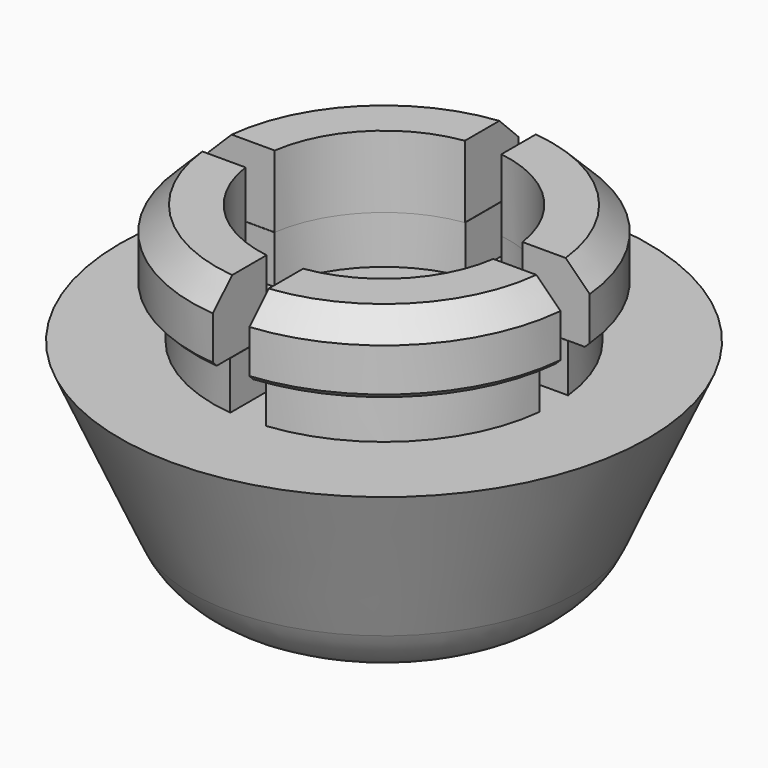
from build123d import *

# Parameters (mm, degrees)
F1_R     = 8.89
F2_R     = 13.97
F5_R     = 5.08
F7_DEPTH = 2.54
F9_DEPTH = 3.81
F10_SIZE = 1.27
F11_SIZE = 0.254


with BuildPart() as f4:
    # F1 (on Top) → F4 section 0
    with BuildSketch(Plane.XY):
        Circle(F1_R)
    # F2 (on offset) → F4 section 1
    with BuildSketch(Plane.XY.offset(11.43)):
        Circle(F2_R)
    loft()

    # F5
    f5_edges = [f4.edges().sort_by_distance(p)[0] for p in [
        (-8.89, 0, 0),
    ]]
    fillet(f5_edges, radius=F5_R)

    # F6 (on offset) → F7 (join)
    with BuildSketch(Plane.XY.offset(11.43)):
        with BuildLine():
            Line((-0.9525, 6.5696794791), (-0.9525, 8.9808006413))
            ThreePointArc((-0.9525, 8.9808006413), (-6.3860017386, 6.3860017386), (-8.9808006413, 0.9525))
            Line((-8.9808006413, 0.9525), (-6.5696794791, 0.9525))
            ThreePointArc((-6.5696794791, 0.9525), (-4.694035828, 4.694035828), (-0.9525, 6.5696794791))
        make_face()
        with BuildLine():
            ThreePointArc((-0.9525, -6.5696794791), (-4.694035828, -4.694035828), (-6.5696794791, -0.9525))
            Line((-6.5696794791, -0.9525), (-8.9808006413, -0.9525))
            ThreePointArc((-8.9808006413, -0.9525), (-6.3860017386, -6.3860017386), (-0.9525, -8.9808006413))
            Line((-0.9525, -8.9808006413), (-0.9525, -6.5696794791))
        make_face()
        with BuildLine():
            ThreePointArc((0.9525, -8.9808006413), (6.3860017386, -6.3860017386), (8.9808006413, -0.9525))
            Line((8.9808006413, -0.9525), (6.5696794791, -0.9525))
            ThreePointArc((6.5696794791, -0.9525), (4.694035828, -4.694035828), (0.9525, -6.5696794791))
            Line((0.9525, -6.5696794791), (0.9525, -8.9808006413))
        make_face()
        with BuildLine():
            Line((6.5696794791, 0.9525), (8.9808006413, 0.9525))
            ThreePointArc((8.9808006413, 0.9525), (6.3860017386, 6.3860017386), (0.9525, 8.9808006413))
            Line((0.9525, 8.9808006413), (0.9525, 6.5696794791))
            ThreePointArc((0.9525, 6.5696794791), (4.694035828, 4.694035828), (6.5696794791, 0.9525))
        make_face()
    extrude(amount=F7_DEPTH)

    # F8 (on offset) → F9 (join)
    with BuildSketch(Plane.XY.offset(13.97)):
        with BuildLine():
            Line((-0.9671329128, 6.5584753021), (-0.9671329128, 10.1138644409))
            ThreePointArc((-0.9671329128, 10.1138644409), (-7.1842048969, 7.1842048969), (-10.1138644409, 0.9671329128))
            Line((-10.1138644409, 0.9671329128), (-6.5584753021, 0.9671329128))
            ThreePointArc((-6.5584753021, 0.9671329128), (-4.6876936952, 4.6876936952), (-0.9671329128, 6.5584753021))
        make_face()
        with BuildLine():
            ThreePointArc((10.1138644409, 0.9671329128), (7.1842048969, 7.1842048969), (0.9671329128, 10.1138644409))
            Line((0.9671329128, 10.1138644409), (0.9671329128, 6.5584753021))
            ThreePointArc((0.9671329128, 6.5584753021), (4.6876936952, 4.6876936952), (6.5584753021, 0.9671329128))
            Line((6.5584753021, 0.9671329128), (10.1138644409, 0.9671329128))
        make_face()
        with BuildLine():
            ThreePointArc((0.9671329128, -10.1138644409), (7.1842048969, -7.1842048969), (10.1138644409, -0.9671329128))
            Line((10.1138644409, -0.9671329128), (6.5584753021, -0.9671329128))
            ThreePointArc((6.5584753021, -0.9671329128), (4.6876936952, -4.6876936952), (0.9671329128, -6.5584753021))
            Line((0.9671329128, -6.5584753021), (0.9671329128, -10.1138644409))
        make_face()
        with BuildLine():
            Line((-6.5584753021, -0.9671329128), (-10.1138644409, -0.9671329128))
            ThreePointArc((-10.1138644409, -0.9671329128), (-7.1842048969, -7.1842048969), (-0.9671329128, -10.1138644409))
            Line((-0.9671329128, -10.1138644409), (-0.9671329128, -6.5584753021))
            ThreePointArc((-0.9671329128, -6.5584753021), (-4.6876936952, -4.6876936952), (-6.5584753021, -0.9671329128))
        make_face()
    extrude(amount=F9_DEPTH)

    # F10
    f10_edges = [f4.edges().sort_by_distance(p)[0] for p in [
        (-7.184205, -7.184205, 17.78),
        (7.184205, -7.184205, 17.78),
        (7.184205, 7.184205, 17.78),
        (-7.184205, 7.184205, 17.78),
    ]]
    chamfer(f10_edges, length=F10_SIZE)

    # F11
    f11_edges = [f4.edges().sort_by_distance(p)[0] for p in [
        (-7.184205, -7.184205, 13.97),
        (-7.184205, 7.184205, 13.97),
        (7.184205, -7.184205, 13.97),
        (7.184205, 7.184205, 13.97),
    ]]
    chamfer(f11_edges, length=F11_SIZE)


solid = f4.part
